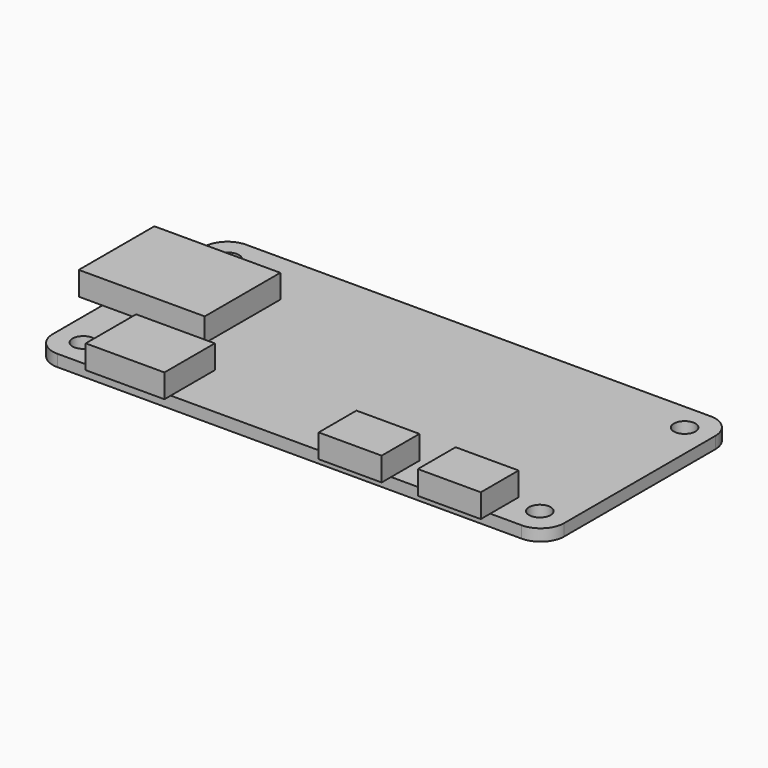
from build123d import *

# Parameters (mm, degrees)
F0_R     = 1.375
F0_W     = 10
F0_H     = 7
F0_W_2   = 13
F0_H_2   = 12
F0_W_3   = 8
F0_H_3   = 4.5
F1_DEPTH = 1.5
F0_W_4   = 3
F0_H_4   = 1
F0_H_5   = 1.5
F2_DEPTH = 3


with BuildPart() as f1:
    # F0 (on Top) → F1 (new body)
    with BuildSketch(Plane.XY):
        with BuildLine():
            Line((-7, 0), (-3, 0))
            ThreePointArc((-3, 0), (-0.87868, 0.87868), (0, 3))
            Line((0, 3), (0, 27))
            ThreePointArc((0, 27), (-0.87868, 29.12132), (-3, 30))
            Line((-3, 30), (-62, 30))
            ThreePointArc((-62, 30), (-64.12132, 29.12132), (-65, 27))
            Line((-65, 27), (-65, 22.9))
            Line((-65, 22.9), (-52, 22.9))
            Line((-52, 22.9), (-52, 10.9))
            Line((-52, 10.9), (-65, 10.9))
            Line((-65, 10.9), (-65, 3))
            ThreePointArc((-65, 3), (-64.12132, 0.87868), (-62, 0))
            Line((-62, 0), (-57.6, 0))
            Line((-57.6, 0), (-57.6, 7))
            Line((-57.6, 7), (-47.6, 7))
            Line((-47.6, 7), (-47.6, 0))
            Line((-47.6, 0), (-27.6, 0))
            Line((-27.6, 0), (-27.6, 4.5))
            Line((-27.6, 4.5), (-19.6, 4.5))
            Line((-19.6, 4.5), (-19.6, 0))
            Line((-19.6, 0), (-15, 0))
            Line((-15, 0), (-15, 4.5))
            Line((-15, 4.5), (-7, 4.5))
            Line((-7, 4.5), (-7, 0))
        make_face()
        with Locations((-61.5, 3.5)):
            Circle(F0_R, mode=Mode.SUBTRACT)
        with Locations((-3.5, 3.5)):
            Circle(F0_R, mode=Mode.SUBTRACT)
        with Locations((-61.5, 26.5)):
            Circle(F0_R, mode=Mode.SUBTRACT)
        with Locations((-3.5, 26.5)):
            Circle(F0_R, mode=Mode.SUBTRACT)
        with Locations((-52.6, 3.5)):
            Rectangle(F0_W, F0_H)
        with Locations((-58.5, 16.9)):
            Rectangle(F0_W_2, F0_H_2)
        with Locations((-23.6, 2.25)):
            Rectangle(F0_W_3, F0_H_3)
        with Locations((-11, 2.25)):
            Rectangle(F0_W_3, F0_H_3)
    extrude(amount=-F1_DEPTH)

    # F0 (on Top) → F2 (join)
    with BuildSketch(Plane.XY):
        with Locations((-58.5, 16.9)):
            Rectangle(F0_W_2, F0_H_2)
        with Locations((-66.5, 16.9)):
            Rectangle(F0_W_4, F0_H_2)
        with Locations((-52.6, 3.5)):
            Rectangle(F0_W, F0_H)
        with Locations((-52.6, -0.5)):
            Rectangle(F0_W, F0_H_4)
        with Locations((-23.6, 2.25)):
            Rectangle(F0_W_3, F0_H_3)
        with Locations((-23.6, -0.75)):
            Rectangle(F0_W_3, F0_H_5)
        with Locations((-11, 2.25)):
            Rectangle(F0_W_3, F0_H_3)
        with Locations((-11, -0.75)):
            Rectangle(F0_W_3, F0_H_5)
    extrude(amount=F2_DEPTH)


solid = f1.part
